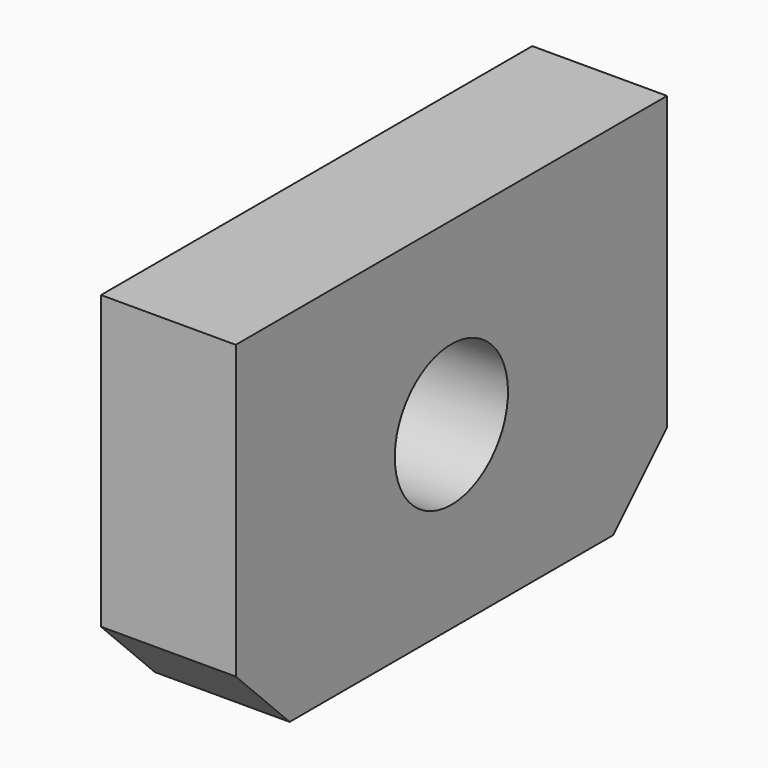
from build123d import *

# Parameters (mm, degrees)
CYLINDER_R         = 3.15
CYLINDER_DEPTH     = 13
BOX009_W           = 6
BOX009_H           = 24
BOX009_DEPTH       = 16
CHAMFER020020_SIZE = 3


with BuildPart() as cylinder:
    # Cylinder → Cylinder (new body)
    with BuildSketch(Plane(origin=(0, 15, -14), x_dir=(0, 0, -1), z_dir=(1, 0, 0))):
        Circle(CYLINDER_R)
    extrude(amount=CYLINDER_DEPTH)


with BuildPart() as cut002002002007004004001004:
    # Box009 → Box009 (new body)
    with BuildSketch(Plane(origin=(0, 3, -22), x_dir=(1, 0, 0), z_dir=(0, 0, 1))):
        with Locations((3, 12)):
            Rectangle(BOX009_W, BOX009_H)
    extrude(amount=BOX009_DEPTH)

    # Chamfer020020
    chamfer020020_edges = [cut002002002007004004001004.edges().sort_by_distance(p)[0] for p in [
        (3, 3, -22),
        (3, 27, -22),
    ]]
    chamfer(chamfer020020_edges, length=CHAMFER020020_SIZE)

    # Cut002002002007004004001004: cut Cylinder
    add(cylinder.part, mode=Mode.SUBTRACT)


solid = cut002002002007004004001004.part
